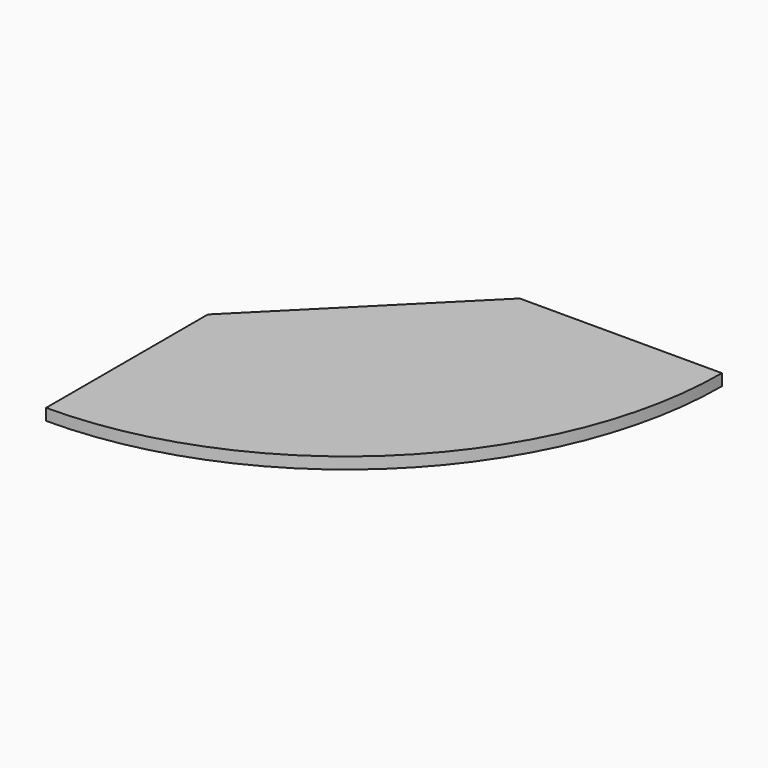
from build123d import *

# Parameters (mm, degrees)
SKETCH_W         = 65
SKETCH_H         = 2
REVOLUTION_ANGLE = -90
POCKET_DEPTH     = 2


with BuildPart() as part:
    # Sketch → Revolution (revolve)
    with BuildSketch(Plane.XZ):
        with Locations((32.5, 1)):
            Rectangle(SKETCH_W, SKETCH_H)
    revolve(axis=Axis((0, 0, 0), (0, 0, 1)), revolution_arc=REVOLUTION_ANGLE)

    # Sketch001 (on Face3 of Revolution) → Pocket (cut)
    with BuildSketch(Plane(origin=(0, 0, 2), x_dir=(-1, 0, 0), z_dir=(0, 0, 1))):
        Polygon((0, 0), (-30, 0), (0, 30), align=None)
    extrude(amount=-POCKET_DEPTH, mode=Mode.SUBTRACT)


solid = part.part
